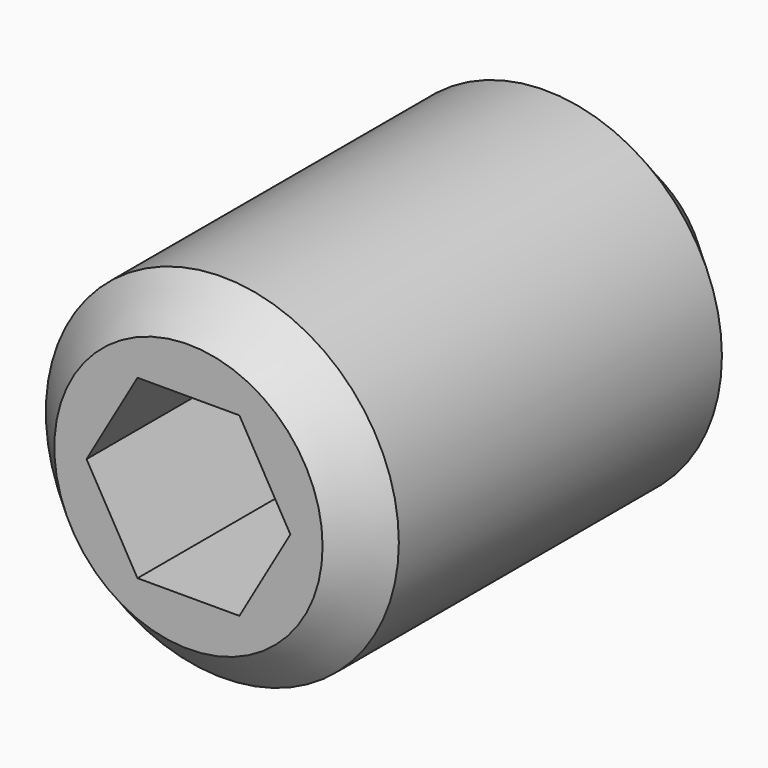
from build123d import *

# Parameters (mm, degrees)
F0_R     = 3.175
F1_DEPTH = 9.525
F2_SIZE2 = 1.4986
F2_SIZE  = 1.4986
F3_SIZE2 = 0.762
F3_SIZE  = 0.762
F5_DEPTH = 3.175


with BuildPart() as f1:
    # F0 (on Front) → F1 (new body)
    with BuildSketch(Plane.XZ):
        Circle(F0_R)
    extrude(amount=-F1_DEPTH)

    # F2
    f2_edges = [f1.edges().sort_by_distance(p)[0] for p in [
        (-3.175, 9.525, 0),
    ]]
    chamfer(f2_edges, length=F2_SIZE, length2=F2_SIZE2)

    # F3
    f3_edges = [f1.edges().sort_by_distance(p)[0] for p in [
        (-3.175, 0, 0),
    ]]
    chamfer(f3_edges, length=F3_SIZE, length2=F3_SIZE2)

    # F4 (on face) → F5 (cut)
    with BuildSketch(Plane.XZ):
        Polygon((0.916544, 1.5875), (-0.916544, 1.5875), (-1.833087, 0), (-0.916544, -1.5875), (0.916544, -1.5875), (1.833087, 0), align=None)
    extrude(amount=-F5_DEPTH, mode=Mode.SUBTRACT)


solid = f1.part
